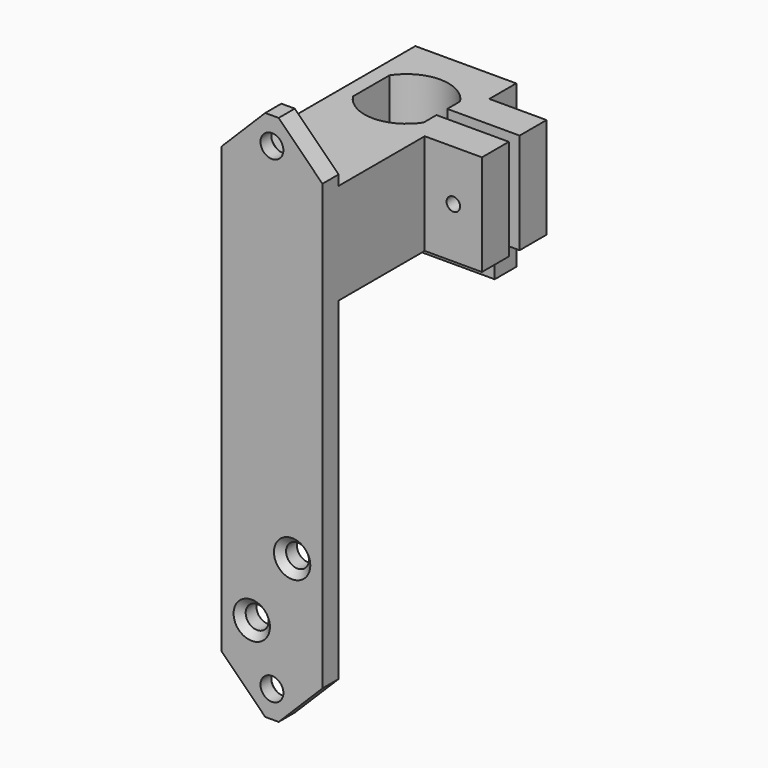
from build123d import *

# Parameters (mm, degrees)
CYLINDER099_R               = 3
CYLINDER099_DEPTH           = 3
CYLINDER098_R               = 5
CYLINDER098_DEPTH           = 3
CYLINDER090_R               = 1.2
CYLINDER090_DEPTH           = 13
CYLINDER091_R               = 1
CYLINDER091_DEPTH           = 12
CYLINDER091_ROLL_ANGLE      = 89.999919
CYLINDER091_PITCH_ANGLE     = -3.6e-05
CYLINDER091_PLACEMENT_ANGLE = 179.999964
CYLINDER069_R               = 2.2
CYLINDER069_DEPTH           = 12
CYLINDER069_ROLL_ANGLE      = 89.999919
CYLINDER069_PITCH_ANGLE     = -3.6e-05
CYLINDER069_PLACEMENT_ANGLE = 179.999964
CYLINDER068_R               = 1.2
CYLINDER068_DEPTH           = 12
CYLINDER068_ROLL_ANGLE      = 89.999919
CYLINDER068_PITCH_ANGLE     = -3.6e-05
CYLINDER068_PLACEMENT_ANGLE = 179.999964
BOX406016_W                 = 49
BOX406016_H                 = 2
BOX406016_DEPTH             = 32
BOX406008016_W              = 9
BOX406008016_H              = 12
BOX406008016_DEPTH          = 15
BOX406017_W                 = 16
BOX406017_H                 = 10.5
BOX406017_DEPTH             = 28
CYLINDER067_R               = 6.25
CYLINDER067_DEPTH           = 26
COMMON004_PLACEMENT_ANGLE   = 90
BOX406008015_W              = 15
BOX406008015_H              = 31
BOX406008015_DEPTH          = 15
BOX406008017_W              = 15
BOX406008017_H              = 4
BOX406008017_DEPTH          = 24
CYLINDER096_R               = 1.7
CYLINDER096_DEPTH           = 21
BOX_W                       = 15
BOX_H                       = 3
BOX_DEPTH                   = 8
CYLINDER097_R               = 1.7
CYLINDER097_DEPTH           = 21
BOX406008018_W              = 15
BOX406008018_H              = 3
BOX406008018_DEPTH          = 8
CHAMFER005_SIZE             = 1
CYLINDER093_R               = 1.7
CYLINDER093_DEPTH           = 21
CYLINDER092_R               = 1.7
CYLINDER092_DEPTH           = 21
BOX406008014_W              = 15
BOX406008014_H              = 3
BOX406008014_DEPTH          = 63
CHAMFER006_SIZE             = 1
CHAMFER007_SIZE             = 6.5


with BuildPart() as cylinder099:
    # Cylinder099 → Cylinder099 (new body)
    with BuildSketch(Plane(origin=(-9, -9, 36), x_dir=(1, 0, 0), z_dir=(0, 0, 1))):
        Circle(CYLINDER099_R)
    extrude(amount=CYLINDER099_DEPTH)


with BuildPart() as cut081:
    # Cylinder098 → Cylinder098 (new body)
    with BuildSketch(Plane(origin=(-9, -9, 36), x_dir=(1, 0, 0), z_dir=(0, 0, 1))):
        Circle(CYLINDER098_R)
    extrude(amount=CYLINDER098_DEPTH)

    # Cut081: cut Cylinder099
    add(cylinder099.part, mode=Mode.SUBTRACT)


with BuildPart() as cylinder084:
    # Cylinder090 → Cylinder090 (new body)
    with BuildSketch(Plane(origin=(0, 16, 35.8), x_dir=(1, 0, 0), z_dir=(0, -1, 0))):
        Circle(CYLINDER090_R)
    extrude(amount=CYLINDER090_DEPTH)


with BuildPart() as cylinder091:
    # Cylinder091 → Cylinder091 (new body)
    with BuildSketch(Plane.XY):
        Circle(CYLINDER091_R)
    extrude(amount=CYLINDER091_DEPTH)


with BuildPart() as cylinder091_1:
    # Cylinder091 roll: moved
    add(cylinder091.part.rotate(Axis((0, 0, 0), (1, 0, 0)), CYLINDER091_ROLL_ANGLE))


with BuildPart() as cylinder091_2:
    # Cylinder091 pitch: moved
    add(cylinder091_1.part.rotate(Axis((0, 0, 0), (0, 1, 0)), CYLINDER091_PITCH_ANGLE))


with BuildPart() as cylinder091_3:
    # Cylinder091 placement: moved
    add(cylinder091_2.part.moved(Location((11.75, -12, 42.5))).rotate(Axis((11.75, -12, 42.5), (0, 0, 1)), CYLINDER091_PLACEMENT_ANGLE))


with BuildPart() as cylinder069:
    # Cylinder069 → Cylinder069 (new body)
    with BuildSketch(Plane.XY):
        Circle(CYLINDER069_R)
    extrude(amount=CYLINDER069_DEPTH)


with BuildPart() as cylinder069_1:
    # Cylinder069 roll: moved
    add(cylinder069.part.rotate(Axis((0, 0, 0), (1, 0, 0)), CYLINDER069_ROLL_ANGLE))


with BuildPart() as cylinder069_2:
    # Cylinder069 pitch: moved
    add(cylinder069_1.part.rotate(Axis((0, 0, 0), (0, 1, 0)), CYLINDER069_PITCH_ANGLE))


with BuildPart() as cylinder069_3:
    # Cylinder069 placement: moved
    add(cylinder069_2.part.moved(Location((11.75, 3, 42.5))).rotate(Axis((11.75, 3, 42.5), (0, 0, 1)), CYLINDER069_PLACEMENT_ANGLE))


with BuildPart() as fusion103077013004017011:
    # Cylinder068 → Cylinder068 (new body)
    with BuildSketch(Plane.XY):
        Circle(CYLINDER068_R)
    extrude(amount=CYLINDER068_DEPTH)


with BuildPart() as fusion103077013004017011_1:
    # Cylinder068 roll: moved
    add(fusion103077013004017011.part.rotate(Axis((0, 0, 0), (1, 0, 0)), CYLINDER068_ROLL_ANGLE))


with BuildPart() as fusion103077013004017011_2:
    # Cylinder068 pitch: moved
    add(fusion103077013004017011_1.part.rotate(Axis((0, 0, 0), (0, 1, 0)), CYLINDER068_PITCH_ANGLE))


with BuildPart() as fusion103077013004017011_3:
    # Cylinder068 placement: moved
    add(fusion103077013004017011_2.part.moved(Location((11.75, 0, 42.5))).rotate(Axis((11.75, 0, 42.5), (0, 0, 1)), CYLINDER068_PLACEMENT_ANGLE))

    # Fusion103077013: union Cylinder069
    add(cylinder069_3.part)

    # Fusion103077013004017011: union Cylinder091
    add(cylinder091_3.part)


with BuildPart() as clamp_slot:
    # Box406016 → Box406016 (new body)
    with BuildSketch(Plane(origin=(48.48, 1, 22), x_dir=(-1, 0, 0), z_dir=(0, 0, 1))):
        with Locations((24.5, 1)):
            Rectangle(BOX406016_W, BOX406016_H)
    extrude(amount=BOX406016_DEPTH)


with BuildPart() as cube351:
    # Box406008016 → Box406008016 (new body)
    with BuildSketch(Plane(origin=(7, -6, 35), x_dir=(1, 0, 0), z_dir=(0, 0, 1))):
        with Locations((4.5, 6)):
            Rectangle(BOX406008016_W, BOX406008016_H)
    extrude(amount=BOX406008016_DEPTH)


with BuildPart() as gearbox001:
    # Box406017 → Box406017 (new body)
    with BuildSketch(Plane(origin=(-8, -5.25, 18), x_dir=(1, 0, 0), z_dir=(0, 0, 1))):
        with Locations((8, 5.25)):
            Rectangle(BOX406017_W, BOX406017_H)
    extrude(amount=BOX406017_DEPTH)


with BuildPart() as motor_hole:
    # Cylinder067 → Cylinder067 (new body)
    with BuildSketch(Plane.XY.offset(20)):
        Circle(CYLINDER067_R)
    extrude(amount=CYLINDER067_DEPTH)

    # Common004: intersect gearbox001
    add(gearbox001.part, mode=Mode.INTERSECT)


with BuildPart() as motor_hole_1:
    # Common004 placement: moved
    add(motor_hole.part.moved(Location((0, 0, 5))).rotate(Axis((0, 0, 5), (0, 0, 1)), COMMON004_PLACEMENT_ANGLE))


with BuildPart() as cut075:
    # Box406008015 → Box406008015 (new body)
    with BuildSketch(Plane(origin=(-7.5, -22, 35), x_dir=(1, 0, 0), z_dir=(0, 0, 1))):
        with Locations((7.5, 15.5)):
            Rectangle(BOX406008015_W, BOX406008015_H)
    extrude(amount=BOX406008015_DEPTH)

    # Cut073: cut motor-hole
    add(motor_hole_1.part, mode=Mode.SUBTRACT)

    # Fusion103077013004017010: union Cube351
    add(cube351.part)

    # Cut074: cut clamp-slot
    add(clamp_slot.part, mode=Mode.SUBTRACT)

    # Cut075: cut Fusion103077013004017011
    add(fusion103077013004017011_3.part, mode=Mode.SUBTRACT)


with BuildPart() as cut082:
    # Box406008017 → Box406008017 (new body)
    with BuildSketch(Plane(origin=(-7.5, 7, 26), x_dir=(1, 0, 0), z_dir=(0, 0, 1))):
        with Locations((7.5, 2)):
            Rectangle(BOX406008017_W, BOX406008017_H)
    extrude(amount=BOX406008017_DEPTH)

    # Fusion103077013004017012: union Cut075
    add(cut075.part)

    # Cut076: cut Cylinder084
    add(cylinder084.part, mode=Mode.SUBTRACT)


with BuildPart() as cut082_1:
    # Cut076 placement: moved
    add(cut082.part.moved(Location((0, 0, -5))))

    # Cut082: cut Cut081
    add(cut081.part, mode=Mode.SUBTRACT)


with BuildPart() as cylinder096:
    # Cylinder096 → Cylinder096 (new body)
    with BuildSketch(Plane(origin=(0, -13, 49), x_dir=(1, 0, 0), z_dir=(0, -1, 0))):
        Circle(CYLINDER096_R)
    extrude(amount=CYLINDER096_DEPTH)


with BuildPart() as cut080:
    # Box → Box (new body)
    with BuildSketch(Plane(origin=(-7.5, -25, 45), x_dir=(1, 0, 0), z_dir=(0, 0, 1))):
        with Locations((7.5, 1.5)):
            Rectangle(BOX_W, BOX_H)
    extrude(amount=BOX_DEPTH)

    # Cut080: cut Cylinder096
    add(cylinder096.part, mode=Mode.SUBTRACT)


with BuildPart() as cylinder097:
    # Cylinder097 → Cylinder097 (new body)
    with BuildSketch(Plane(origin=(0, -13, -22), x_dir=(1, 0, 0), z_dir=(0, -1, 0))):
        Circle(CYLINDER097_R)
    extrude(amount=CYLINDER097_DEPTH)


with BuildPart() as chamfer005:
    # Box406008018 → Box406008018 (new body)
    with BuildSketch(Plane(origin=(-7.5, -25, -26), x_dir=(1, 0, 0), z_dir=(0, 0, 1))):
        with Locations((7.5, 1.5)):
            Rectangle(BOX406008018_W, BOX406008018_H)
    extrude(amount=BOX406008018_DEPTH)

    # Cut079: cut Cylinder097
    add(cylinder097.part, mode=Mode.SUBTRACT)

    # Fusion103077013004017015: union Cut080
    add(cut080.part)

    # Chamfer005
    chamfer005_edges = [chamfer005.edges().sort_by_distance(p)[0] for p in [
        (-1.7, -22, -22),
        (-1.7, -22, 49),
    ]]
    chamfer(chamfer005_edges, length=CHAMFER005_SIZE)


with BuildPart() as cylinder093:
    # Cylinder093 → Cylinder093 (new body)
    with BuildSketch(Plane(origin=(3, -13, -4), x_dir=(1, 0, 0), z_dir=(0, -1, 0))):
        Circle(CYLINDER093_R)
    extrude(amount=CYLINDER093_DEPTH)


with BuildPart() as fusion103077013004017013:
    # Cylinder092 → Cylinder092 (new body)
    with BuildSketch(Plane(origin=(-3, -13, -14), x_dir=(1, 0, 0), z_dir=(0, -1, 0))):
        Circle(CYLINDER092_R)
    extrude(amount=CYLINDER092_DEPTH)

    # Fusion103077013004017013: union Cylinder093
    add(cylinder093.part)


with BuildPart() as fusion103077013004017017:
    # Box406008014 → Box406008014 (new body)
    with BuildSketch(Plane(origin=(-7.5, -25, -18), x_dir=(1, 0, 0), z_dir=(0, 0, 1))):
        with Locations((7.5, 1.5)):
            Rectangle(BOX406008014_W, BOX406008014_H)
    extrude(amount=BOX406008014_DEPTH)

    # Cut077: cut Fusion103077013004017013
    add(fusion103077013004017013.part, mode=Mode.SUBTRACT)

    # Chamfer006
    chamfer006_edges = [fusion103077013004017017.edges().sort_by_distance(p)[0] for p in [
        (-4.7, -25, -14),
        (1.3, -25, -4),
    ]]
    chamfer(chamfer006_edges, length=CHAMFER006_SIZE)

    # Fusion103077013004017016: union Chamfer005
    add(chamfer005.part)

    # Chamfer007
    chamfer007_edges = [fusion103077013004017017.edges().sort_by_distance(p)[0] for p in [
        (-7.5, -23.5, -26),
        (7.5, -23.5, -26),
        (7.5, -23.5, 53),
        (-7.5, -23.5, 53),
    ]]
    chamfer(chamfer007_edges, length=CHAMFER007_SIZE)

    # Fusion103077013004017017: union Cut082
    add(cut082_1.part)


solid = fusion103077013004017017.part
